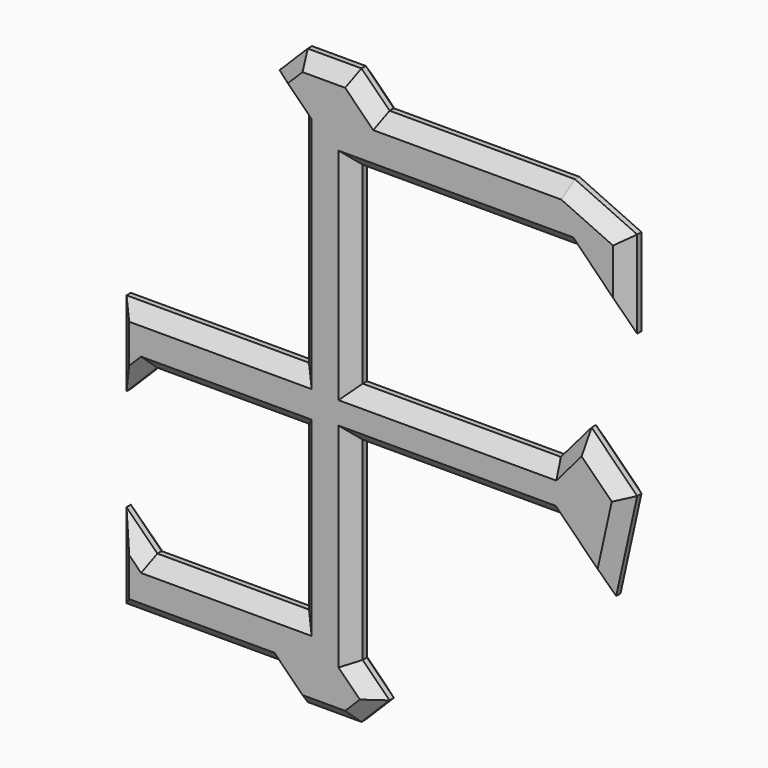
from build123d import *

# Parameters (mm, degrees)
F1_DEPTH = 3.81
F2_SIZE  = 1.5875
F3_SCALE = 0.75


with BuildPart() as f1:
    # F0 (on Front) → F1 (new body)
    with BuildSketch(Plane.XZ):
        Polygon((-6.6455395231, 29.4341069916), (-3.175, 25.9635674685), (-3.175, 0.1128360473), (-24.7444733058, 0.1128360473), (-24.7444733058, -9.883693457), (-21.0979438016, -6.2371639527), (-3.175, -6.2371639527), (-3.175, -25.5762760587), (-21.0979438016, -25.5762760587), (-24.7444733058, -21.9297465545), (-24.7444733058, -31.9262760587), (-22.1278171024, -31.9262760587), (-6.6455395231, -31.9262760587), (-3.3227697615, -35.2490458202), (3.0272302385, -35.2490458202), (6.35, -31.9262760587), (3.175, -28.7512760587), (3.175, -5.8234985377), (26.6026397626, -5.8234985377), (33.1378690898, -12.3587278649), (35.6206595898, -1.1474714229), (30.2332143891, 4.2399737777), (26.6026397626, 0), (3.175, 0), (3.175, 22.7885674685), (28.6609344184, 22.7885674685), (35.6206595898, 15.7537590712), (35.6206595898, 26.0716768982), (28.2596744327, 29.4341069916), (6.35, 29.4341069916), (3.0272302385, 32.7568767531), (-3.3227697615, 32.7568767531), align=None)
    extrude(amount=F1_DEPTH)

    # F2
    f2_edges = [f1.edges().sort_by_distance(p)[0] for p in [
        (17.304837, -3.81, 29.434107),
        (4.688615, -3.81, 31.095492),
        (-0.14777, -3.81, 32.756877),
        (-4.984155, -3.81, 31.095492),
        (-4.91027, -3.81, 27.698837),
        (-3.175, -3.81, 13.038202),
        (-13.959737, -3.81, 0.112836),
        (-24.744473, -3.81, -4.885429),
        (-22.921209, -3.81, -8.060429),
        (-12.136472, -3.81, -6.237164),
        (-3.175, -3.81, -15.90672),
        (-12.136472, -3.81, -25.576276),
        (-22.921209, -3.81, -23.753011),
        (-24.744473, -3.81, -26.928011),
        (-15.695006, -3.81, -31.926276),
        (-4.984155, -3.81, -33.587661),
        (-0.14777, -3.81, -35.249046),
        (4.688615, -3.81, -33.587661),
        (4.7625, -3.81, -30.338776),
        (3.175, -3.81, -17.287387),
        (14.88882, -3.81, -5.823499),
        (29.870254, -3.81, -9.091113),
        (34.379264, -3.81, -6.7531),
        (32.926937, -3.81, 1.546251),
        (28.417927, -3.81, 2.119987),
        (14.88882, -3.81, 0),
        (3.175, -3.81, 11.394284),
        (15.917967, -3.81, 22.788567),
        (32.140797, -3.81, 19.271163),
        (35.62066, -3.81, 20.912718),
        (31.940167, -3.81, 27.752892),
        (17.304837, 0, 29.434107),
        (4.688615, 0, 31.095492),
        (-0.14777, 0, 32.756877),
        (-4.984155, 0, 31.095492),
        (-4.91027, 0, 27.698837),
        (-3.175, 0, 13.038202),
        (-13.959737, 0, 0.112836),
        (-24.744473, 0, -4.885429),
        (-22.921209, 0, -8.060429),
        (-12.136472, 0, -6.237164),
        (-3.175, 0, -15.90672),
        (-12.136472, 0, -25.576276),
        (-22.921209, 0, -23.753011),
        (-24.744473, 0, -26.928011),
        (-15.695006, 0, -31.926276),
        (-4.984155, 0, -33.587661),
        (-0.14777, 0, -35.249046),
        (4.688615, 0, -33.587661),
        (4.7625, 0, -30.338776),
        (3.175, 0, -17.287387),
        (14.88882, 0, -5.823499),
        (29.870254, 0, -9.091113),
        (34.379264, 0, -6.7531),
        (32.926937, 0, 1.546251),
        (28.417927, 0, 2.119987),
        (14.88882, 0, 0),
        (3.175, 0, 11.394284),
        (15.917967, 0, 22.788567),
        (32.140797, 0, 19.271163),
        (35.62066, 0, 20.912718),
        (31.940167, 0, 27.752892),
    ]]
    chamfer(f2_edges, length=F2_SIZE)


with BuildPart() as f1_1:
    # F3: moved
    add(f1.part.scale(F3_SCALE))


solid = f1_1.part
